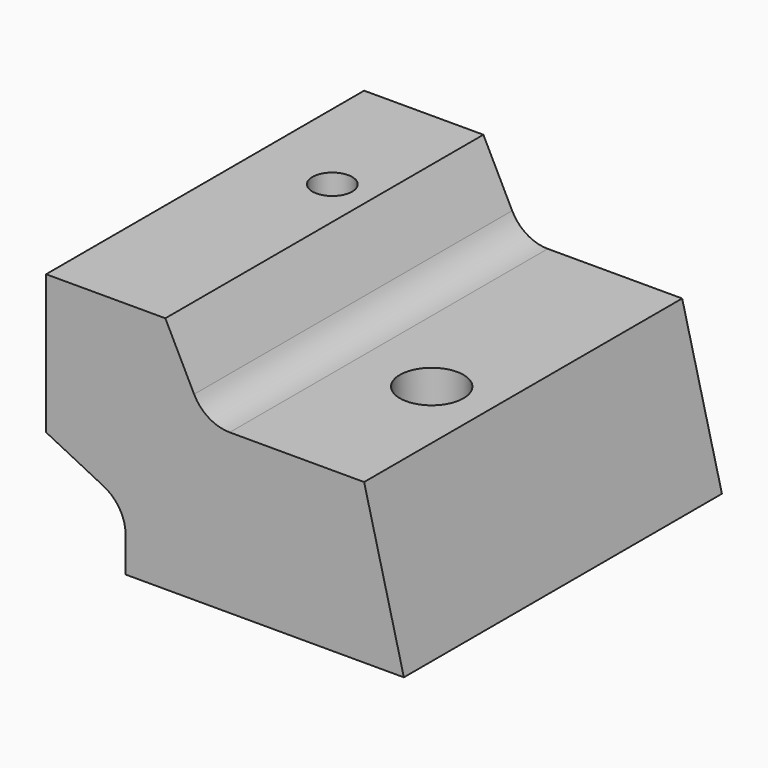
from build123d import *

# Parameters (mm, degrees)
F1_DEPTH = 100
F2_R     = 10
F3_R     = 5
F3_R_2   = 8
F4_DEPTH = 60.001


with BuildPart() as f1:
    # F0 (on Front) → F1 (new body)
    with BuildSketch(Plane.XZ):
        Polygon((0, 15), (0, 0), (70, 0), (60, 40), (20, 40), (10, 60), (-20, 60), (-20, 25), align=None)
    extrude(amount=-F1_DEPTH)

    # F2
    f2_edges = [f1.edges().sort_by_distance(p)[0] for p in [
        (20, 50, 40),
        (0, 50, 15),
    ]]
    fillet(f2_edges, radius=F2_R)

    # F3 (on face) → F4 (cut, through all)
    with BuildSketch(Plane.XY.offset(60)):
        with Locations((0, 65)):
            Circle(F3_R)
        with Locations((45, 40)):
            Circle(F3_R_2)
    extrude(amount=-F4_DEPTH, mode=Mode.SUBTRACT)


solid = f1.part
